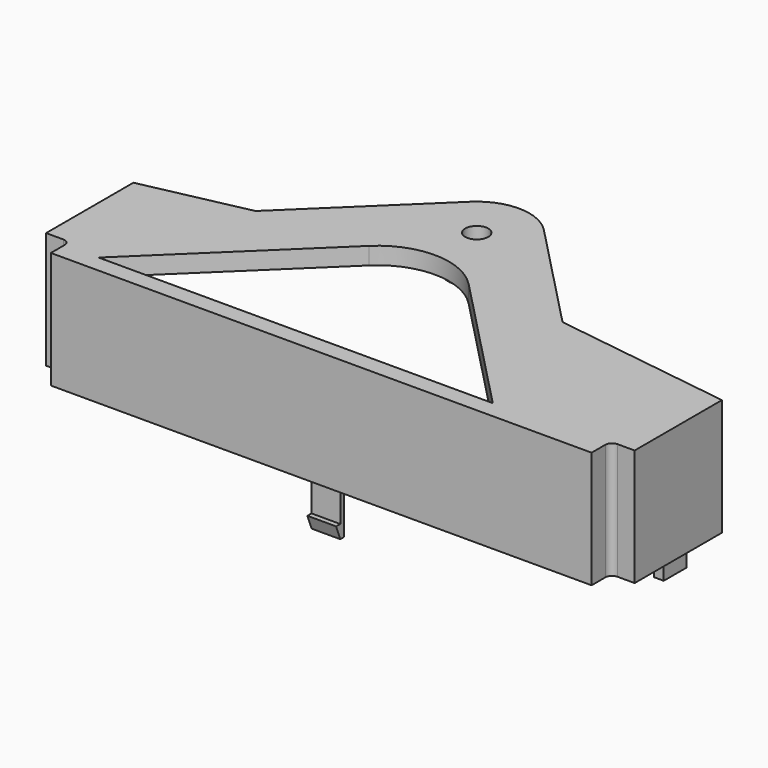
from build123d import *

# Parameters (mm, degrees)
SKETCH_R     = 1.2
PAD_DEPTH    = 1.8
PAD001_DEPTH = 10.4
SKETCH002_W  = 3
SKETCH002_H  = 5
PAD002_DEPTH = 0.5
SKETCH003_W  = 3
SKETCH003_H  = 0.5
PAD003_DEPTH = 4.1
PAD004_DEPTH = 3
SKETCH006_W  = 1
SKETCH006_H  = 3
PAD005_DEPTH = 2
SKETCH007_R  = 3
PAD006_DEPTH = 1.7
SKETCH008_R  = 1.202636
POCKET_DEPTH = 15.901


with BuildPart() as part:
    # Sketch → Pad (new body)
    with BuildSketch(Plane.XY):
        with BuildLine():
            Line((-24.9, -24.5), (31.6, -24.5))
            Line((31.6, -24.5), (31.6, -22.7))
            ThreePointArc((32.3, -22), (31.805025, -22.205025), (31.6, -22.7))
            Line((32.3, -22), (34.1, -22))
            Line((34.1, -22), (34.1, -10.6))
            Line((15.335508, -7.962823), (34.1, -10.6))
            Line((3.956369, 3.820621), (15.335508, -7.962823))
            ThreePointArc((3.956369, 3.820621), (0.095988, 5.499162), (-3.820621, 3.956369))
            Line((-16.493585, -8.28177), (-3.820621, 3.956369))
            Line((-27.4, -10.6), (-16.493585, -8.28177))
            Line((-27.4, -22), (-27.4, -10.6))
            Line((-25.6, -22), (-27.4, -22))
            ThreePointArc((-24.9, -22.7), (-25.105025, -22.205025), (-25.6, -22))
            Line((-24.9, -24.5), (-24.9, -22.7))
        make_face()
        Circle(SKETCH_R, mode=Mode.SUBTRACT)
        with BuildLine():
            Line((-21.347203, -22.7), (19.83589, -22.7))
            Line((5.150202, -7.492526), (19.83589, -22.7))
            ThreePointArc((5.150202, -7.492526), (-0.091003, -5.213584), (-5.40855, -7.308222))
            Line((-21.347203, -22.7), (-5.40855, -7.308222))
        make_face(mode=Mode.SUBTRACT)
    extrude(amount=PAD_DEPTH)

    # Sketch001 → Pad001 (new body)
    with BuildSketch(Plane(origin=(0, 0, 0), x_dir=(1, 0, 0), z_dir=(0, 0, -1))):
        with BuildLine():
            Line((-27.4, 22), (-25.6, 22))
            ThreePointArc((-25.6, 22), (-25.105025, 22.205025), (-24.9, 22.7))
            Line((-24.9, 24.5), (-24.9, 22.7))
            Line((31.6, 24.5), (-24.9, 24.5))
            Line((31.6, 24.5), (31.6, 22.7))
            ThreePointArc((31.6, 22.7), (31.805025, 22.205025), (32.3, 22))
            Line((32.3, 22), (34.1, 22))
            Line((34.1, 22), (34.1, 10.6))
            Line((32.300003, 10.6), (34.1, 10.6))
            Line((32.300003, 20.2), (32.300003, 10.6))
            ThreePointArc((29.8, 22.7), (30.532234, 20.932232), (32.300003, 20.2))
            Line((-23.1, 22.7), (29.8, 22.7))
            ThreePointArc((-25.6, 20.2), (-23.832233, 20.932233), (-23.1, 22.7))
            Line((-25.6, 10.6), (-25.6, 20.2))
            Line((-27.4, 10.6), (-25.6, 10.6))
            Line((-27.4, 22), (-27.4, 10.6))
        make_face()
    extrude(amount=PAD001_DEPTH)

    # Sketch002 → Pad002 (new body)
    with BuildSketch(Plane(origin=(0, -22.7, 0), x_dir=(-1, 0, 0), z_dir=(0, 1, 0))):
        with Locations((-2.4, -7.9)):
            Rectangle(SKETCH002_W, SKETCH002_H)
    extrude(amount=PAD002_DEPTH)

    # Sketch003 → Pad003 (new body)
    with BuildSketch(Plane(origin=(0, 0, -10.4), x_dir=(1, 0, 0), z_dir=(0, 0, -1))):
        with Locations((2.4, 22.45)):
            Rectangle(SKETCH003_W, SKETCH003_H)
    extrude(amount=PAD003_DEPTH)

    # Sketch005 → Pad004 (new body)
    with BuildSketch(Plane(origin=(0.9, 0, 0), x_dir=(0, -1, 0), z_dir=(-1, 0, 0))):
        Polygon((22.2, -14.5), (23.24, -14.5), (22.7, -15.9), (22.2, -15.9), align=None)
    extrude(amount=-PAD004_DEPTH)

    # Sketch006 → Pad005 (new body)
    with BuildSketch(Plane(origin=(0, 0, -10.4), x_dir=(1, 0, 0), z_dir=(0, 0, -1))):
        with Locations((-26.1, 15.7)):
            Rectangle(SKETCH006_W, SKETCH006_H)
        with Locations((32.800003, 15.7)):
            Rectangle(SKETCH006_W, SKETCH006_H)
    extrude(amount=PAD005_DEPTH)

    # Sketch007 → Pad006 (new body)
    with BuildSketch(Plane(origin=(0, 0, 0), x_dir=(1, 0, 0), z_dir=(0, 0, -1))):
        Circle(SKETCH007_R)
    extrude(amount=PAD006_DEPTH)

    # Sketch008 → Pocket (cut, through all)
    with BuildSketch(Plane.XY):
        Circle(SKETCH008_R)
    extrude(amount=-POCKET_DEPTH, mode=Mode.SUBTRACT)


solid = part.part
